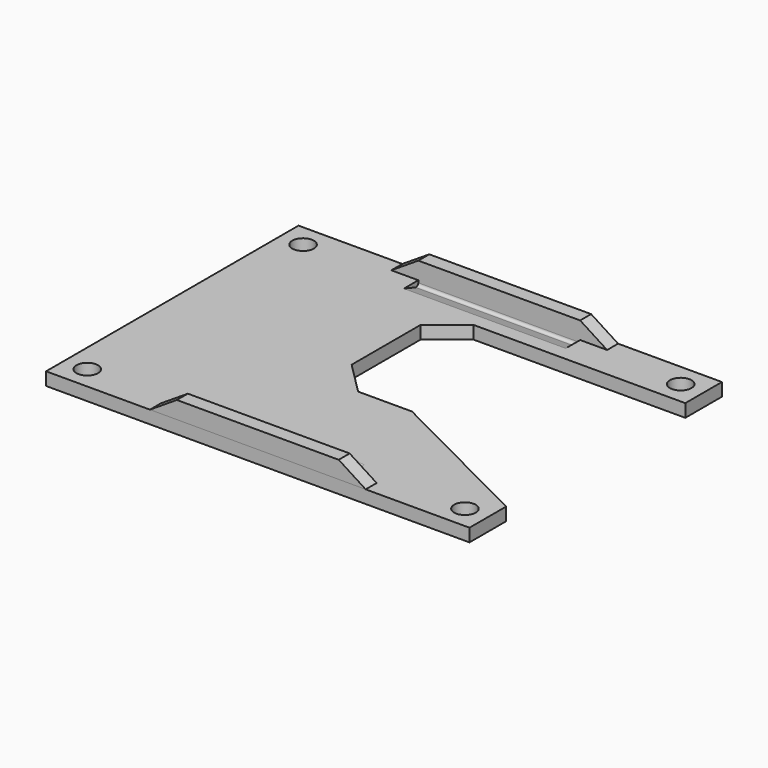
from build123d import *

# Parameters (mm, degrees)
SKETCH003_R     = 1
PAD_DEPTH       = 1.2
PAD014_DEPTH    = 1.2713
POCKET004_DEPTH = 7.5


with BuildPart() as part:
    # Sketch003 → Pad (new body)
    with BuildSketch(Plane.XY):
        Polygon((-19.62132, 14.62132), (-15.37868, 14.62132), (19.62132, 14.62132), (19.62132, 10.37868), (0, 10.37868), (-3, 8), (-3, 0), (0, -3), (5, -3), (19.62132, -10.37868), (19.62132, -14.62132), (-19.62132, -14.62132), align=None)
        with Locations((-17.5, 12.5)):
            Circle(SKETCH003_R, mode=Mode.SUBTRACT)
        with Locations((-17.5, -12.5)):
            Circle(SKETCH003_R, mode=Mode.SUBTRACT)
        with Locations((17.5, -12.5)):
            Circle(SKETCH003_R, mode=Mode.SUBTRACT)
        with Locations((17.5, 12.5)):
            Circle(SKETCH003_R, mode=Mode.SUBTRACT)
    extrude(amount=-PAD_DEPTH)

    # Sketch019 (on DatumPlane) → Pad014 (join)
    with BuildSketch(Plane.XZ.offset(14.6213)):
        Polygon((-10, 0), (-7.5, 1.6), (7.5, 1.6), (10, 0), align=None)
    pad014 = extrude(amount=-PAD014_DEPTH)

    # Sketch → Pocket004 (cut, symmetric)
    with BuildSketch(Plane.YZ):
        with BuildLine():
            ThreePointArc((-13.35, -0.209228), (-13.246442, -0.411848), (-13.021562, -0.446604))
            Line((-13.021562, -0.446604), (-11.67, 0))
            Line((-13.35, 0), (-11.67, 0))
            Line((-13.35, -0.209228), (-13.35, 0))
        make_face()
    pocket004 = extrude(amount=POCKET004_DEPTH, both=True, mode=Mode.SUBTRACT)

    # Mirrored: Pad014, Pocket004 across XZ
    add(pad014.mirror(Plane.XZ))
    add(pocket004.mirror(Plane.XZ), mode=Mode.SUBTRACT)


solid = part.part
